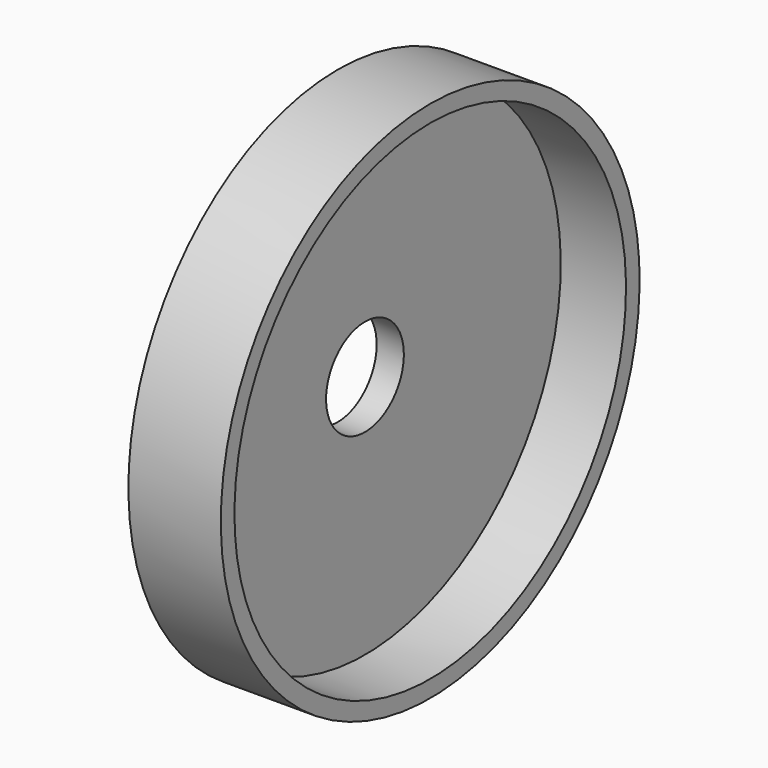
from build123d import *

# Parameters (mm, degrees)
F0_W = 4
F0_H = 28.85


with BuildPart() as f1:
    # F0 (on Front) → F1 (revolve)
    with BuildSketch(Plane.XZ):
        with Locations((2, 21.575)):
            Rectangle(F0_W, F0_H)
        Polygon((0, 38.5), (0, 36), (4, 36), (13.6, 36), (13.6, 38.5), (4, 38.5), align=None)
    revolve(axis=Axis((2, 0, 0), (-1, 0, 0)))


solid = f1.part
